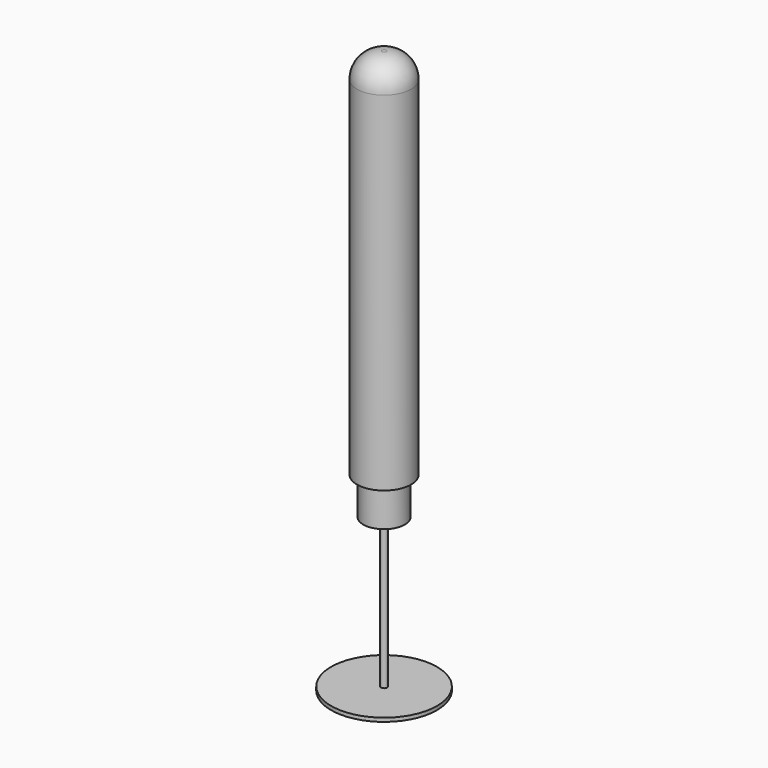
from build123d import *

# Parameters (mm, degrees)
F0_R      = 11.050187
F1_DEPTH  = 152.4
F2_R      = 10.16
F3_R      = 1.293734
F4_DEPTH  = 76.2
F5_R      = 8.49004
F5_R_2    = 1.449468
F6_DEPTH  = 15.24
F7_R      = 7.435283
F7_R_2    = 1.669858
F8_DEPTH  = 12.7
F9_R      = 21.64415
F10_DEPTH = 1.524


with BuildPart() as f1:
    # F0 (on Top) → F1 (new body)
    with BuildSketch(Plane.XY):
        Circle(F0_R)
    extrude(amount=F1_DEPTH)

    # F2
    f2_edges = [f1.edges().sort_by_distance(p)[0] for p in [
        (-11.050187, 0, 152.4),
    ]]
    fillet(f2_edges, radius=F2_R)

    # F3 (on face) → F4 (join)
    with BuildSketch(Plane(origin=(0, 0, 0), x_dir=(1, 0, 0), z_dir=(0, 0, -1))):
        Circle(F3_R)
    extrude(amount=F4_DEPTH)

    # F5 (on face) → F6 (join)
    with BuildSketch(Plane(origin=(0, 0, 0), x_dir=(1, 0, 0), z_dir=(0, 0, -1))):
        Circle(F5_R)
        Circle(F5_R_2, mode=Mode.SUBTRACT)
    extrude(amount=F6_DEPTH)

    # F7 (on face) → F8 (cut)
    with BuildSketch(Plane(origin=(0, 0, -15.24), x_dir=(1, 0, 0), z_dir=(0, 0, -1))):
        Circle(F7_R)
        Circle(F7_R_2, mode=Mode.SUBTRACT)
    extrude(amount=-F8_DEPTH, mode=Mode.SUBTRACT)

    # F9 (on face) → F10 (join)
    with BuildSketch(Plane(origin=(0, 0, -76.2), x_dir=(1, 0, 0), z_dir=(0, 0, -1))):
        Circle(F9_R)
    extrude(amount=F10_DEPTH)


solid = f1.part
